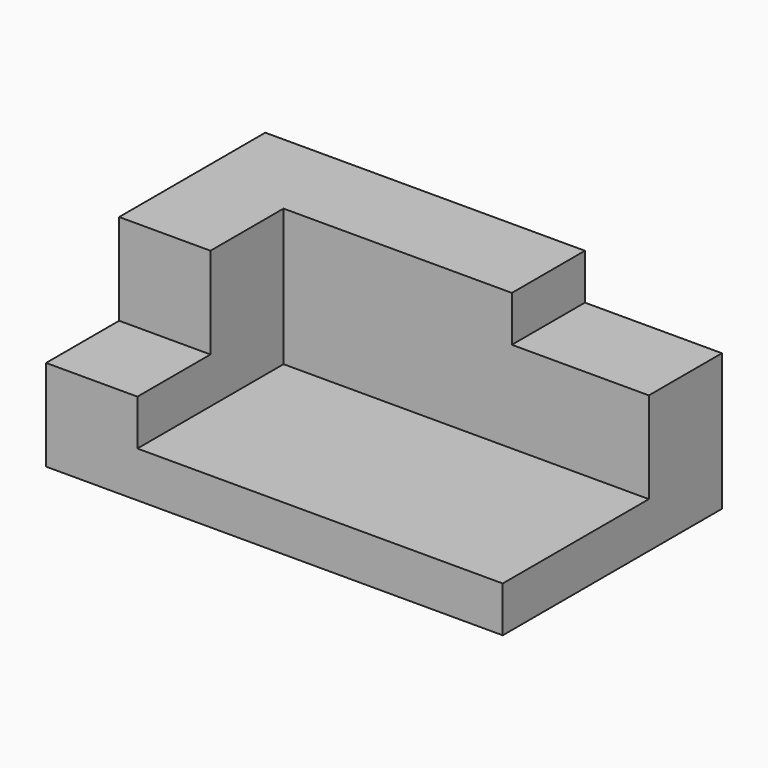
from build123d import *

# Parameters (mm, degrees)
F1_DEPTH = 60
F3_DEPTH = 40
F4_W     = 20
F4_H     = 20
F5_DEPTH = 20


with BuildPart() as f1:
    # F0 (on Front) → F1 (new body)
    with BuildSketch(Plane.XZ):
        Polygon((0, 40), (0, 0), (100, 0), (100, 10), (20, 10), (20, 40), align=None)
        Polygon((70, 40), (20, 40), (20, 10), (100, 10), (100, 30), (70, 30), align=None)
    extrude(amount=-F1_DEPTH)

    # F2 (on face) → F3 (cut)
    with BuildSketch(Plane.XZ):
        Polygon((70, 40), (20, 40), (20, 10), (100, 10), (100, 30), (70, 30), align=None)
    extrude(amount=-F3_DEPTH, mode=Mode.SUBTRACT)

    # F4 (on face) → F5 (cut, through all)
    with BuildSketch(Plane.YZ.offset(20)):
        with Locations((10, 30)):
            Rectangle(F4_W, F4_H)
    extrude(amount=-F5_DEPTH, mode=Mode.SUBTRACT)


solid = f1.part
